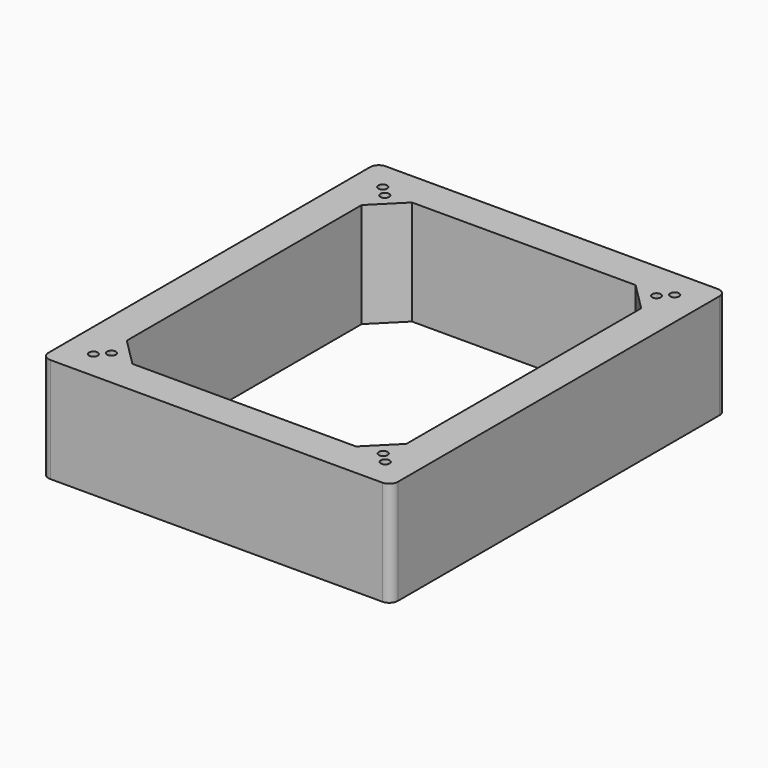
from build123d import *

# Parameters (mm, degrees)
F0_R     = 1.5875
F1_DEPTH = 38.1


with BuildPart() as f1:
    # F0 (on Top) → F1 (new body)
    with BuildSketch(Plane.XY):
        with BuildLine():
            Line((60.531797, 76.456334), (-60.118203, 76.456334))
            ThreePointArc((-60.118203, 76.456334), (-62.363267, 75.526399), (-63.293203, 73.281334))
            Line((-63.293203, 73.281334), (-63.293203, -72.768666))
            ThreePointArc((-63.293203, -72.768666), (-62.363267, -75.01373), (-60.118203, -75.943666))
            Line((-60.118203, -75.943666), (60.531797, -75.943666))
            ThreePointArc((60.531797, -75.943666), (62.776861, -75.01373), (63.706797, -72.768666))
            Line((63.706797, -72.768666), (63.706797, 73.281334))
            ThreePointArc((63.706797, 73.281334), (62.776861, 75.526399), (60.531797, 76.456334))
        make_face()
        with BuildLine():
            ThreePointArc((-56.943203, 66.931334), (-56.013267, 69.176399), (-53.768203, 70.106334))
            Line((-53.768203, 70.106334), (54.181797, 70.106334))
            ThreePointArc((54.181797, 70.106334), (56.426861, 69.176399), (57.356797, 66.931334))
            Line((57.356797, 66.931334), (57.356797, -66.418666))
            ThreePointArc((57.356797, -66.418666), (56.426861, -68.66373), (54.181797, -69.593666))
            Line((54.181797, -69.593666), (-53.768203, -69.593666))
            ThreePointArc((-53.768203, -69.593666), (-56.013267, -68.66373), (-56.943203, -66.418666))
            Line((-56.943203, -66.418666), (-56.943203, 66.931334))
        make_face(mode=Mode.SUBTRACT)
        with BuildLine():
            Line((54.181797, 70.106334), (-53.768203, 70.106334))
            ThreePointArc((-53.768203, 70.106334), (-56.013267, 69.176399), (-56.943203, 66.931334))
            Line((-56.943203, 66.931334), (-56.943203, -66.418666))
            ThreePointArc((-56.943203, -66.418666), (-56.013267, -68.66373), (-53.768203, -69.593666))
            Line((-53.768203, -69.593666), (54.181797, -69.593666))
            ThreePointArc((54.181797, -69.593666), (56.426861, -68.66373), (57.356797, -66.418666))
            Line((57.356797, -66.418666), (57.356797, 66.931334))
            ThreePointArc((57.356797, 66.931334), (56.426861, 69.176399), (54.181797, 70.106334))
        make_face()
        with Locations((-52.834257, -65.484719)):
            Circle(F0_R, mode=Mode.SUBTRACT)
        with BuildLine():
            ThreePointArc((-48.268948, 63.640233), (-47.847518, 63.727175), (-47.418203, 63.756334))
            Line((-47.418203, 63.756334), (-40.433203, 63.756334))
            Line((-40.433203, 63.756334), (40.846797, 63.756334))
            Line((40.846797, 63.756334), (47.831797, 63.756334))
            ThreePointArc((47.831797, 63.756334), (48.261112, 63.727175), (48.682541, 63.640233))
            ThreePointArc((48.682541, 63.640233), (50.321889, 63.738981), (51.171406, 62.333443))
            ThreePointArc((51.171406, 62.333443), (51.099604, 61.861412), (50.890695, 61.432079))
            ThreePointArc((50.890695, 61.432079), (50.977637, 61.01065), (51.006797, 60.581334))
            Line((51.006797, 60.581334), (51.006797, 53.596334))
            Line((51.006797, 53.596334), (51.006797, -53.083666))
            Line((51.006797, -53.083666), (51.006797, -60.698242))
            ThreePointArc((51.006797, -60.698242), (51.000133, -60.882306), (50.980177, -61.065405))
            ThreePointArc((50.980177, -61.065405), (51.122856, -61.431175), (51.171406, -61.820774))
            ThreePointArc((51.171406, -61.820774), (50.39662, -63.184465), (48.828536, -63.217046))
            ThreePointArc((48.828536, -63.217046), (48.645437, -63.237002), (48.461374, -63.243666))
            Line((48.461374, -63.243666), (40.846797, -63.243666))
            Line((40.846797, -63.243666), (-40.433203, -63.243666))
            Line((-40.433203, -63.243666), (-47.418203, -63.243666))
            ThreePointArc((-47.418203, -63.243666), (-47.847518, -63.214506), (-48.268948, -63.127564))
            ThreePointArc((-48.268948, -63.127564), (-50.292844, -62.943306), (-50.477102, -60.91941))
            ThreePointArc((-50.477102, -60.91941), (-50.564044, -60.497981), (-50.593203, -60.068666))
            Line((-50.593203, -60.068666), (-50.593203, -53.083666))
            Line((-50.593203, -53.083666), (-50.593203, 53.596334))
            Line((-50.593203, 53.596334), (-50.593203, 60.581334))
            ThreePointArc((-50.593203, 60.581334), (-50.564044, 61.01065), (-50.477102, 61.432079))
            ThreePointArc((-50.477102, 61.432079), (-50.292844, 63.455975), (-48.268948, 63.640233))
        make_face(mode=Mode.SUBTRACT)
        with Locations((53.24785, -65.484719)):
            Circle(F0_R, mode=Mode.SUBTRACT)
        with Locations((-52.834257, 65.997388)):
            Circle(F0_R, mode=Mode.SUBTRACT)
        with Locations((53.24785, 65.997388)):
            Circle(F0_R, mode=Mode.SUBTRACT)
        with BuildLine():
            Line((-40.433203, 63.756334), (-47.418203, 63.756334))
            ThreePointArc((-47.418203, 63.756334), (-47.847518, 63.727175), (-48.268948, 63.640233))
            ThreePointArc((-48.268948, 63.640233), (-47.764774, 63.071427), (-47.582812, 62.333443))
            ThreePointArc((-47.582812, 62.333443), (-48.69828, 60.817745), (-50.477102, 61.432079))
            ThreePointArc((-50.477102, 61.432079), (-50.564044, 61.01065), (-50.593203, 60.581334))
            Line((-50.593203, 60.581334), (-50.593203, 53.596334))
            Line((-50.593203, 53.596334), (-40.433203, 63.756334))
        make_face()
        with BuildLine():
            Line((47.831797, 63.756334), (40.846797, 63.756334))
            Line((40.846797, 63.756334), (51.006797, 53.596334))
            Line((51.006797, 53.596334), (51.006797, 60.581334))
            ThreePointArc((51.006797, 60.581334), (50.977637, 61.01065), (50.890695, 61.432079))
            ThreePointArc((50.890695, 61.432079), (48.461374, 61.210911), (48.682541, 63.640233))
            ThreePointArc((48.682541, 63.640233), (48.261112, 63.727175), (47.831797, 63.756334))
        make_face()
        with BuildLine():
            Line((51.006797, -60.698242), (51.006797, -53.083666))
            Line((51.006797, -53.083666), (40.846797, -63.243666))
            Line((40.846797, -63.243666), (48.461374, -63.243666))
            ThreePointArc((48.461374, -63.243666), (48.645437, -63.237002), (48.828536, -63.217046))
            ThreePointArc((48.828536, -63.217046), (48.461374, -60.698242), (50.980177, -61.065405))
            ThreePointArc((50.980177, -61.065405), (51.000133, -60.882306), (51.006797, -60.698242))
        make_face()
        with BuildLine():
            Line((-40.433203, -63.243666), (-50.593203, -53.083666))
            Line((-50.593203, -53.083666), (-50.593203, -60.068666))
            ThreePointArc((-50.593203, -60.068666), (-50.564044, -60.497981), (-50.477102, -60.91941))
            ThreePointArc((-50.477102, -60.91941), (-48.69828, -60.305076), (-47.582812, -61.820774))
            ThreePointArc((-47.582812, -61.820774), (-47.764774, -62.558758), (-48.268948, -63.127564))
            ThreePointArc((-48.268948, -63.127564), (-47.847518, -63.214506), (-47.418203, -63.243666))
            Line((-47.418203, -63.243666), (-40.433203, -63.243666))
        make_face()
    extrude(amount=F1_DEPTH)


solid = f1.part
